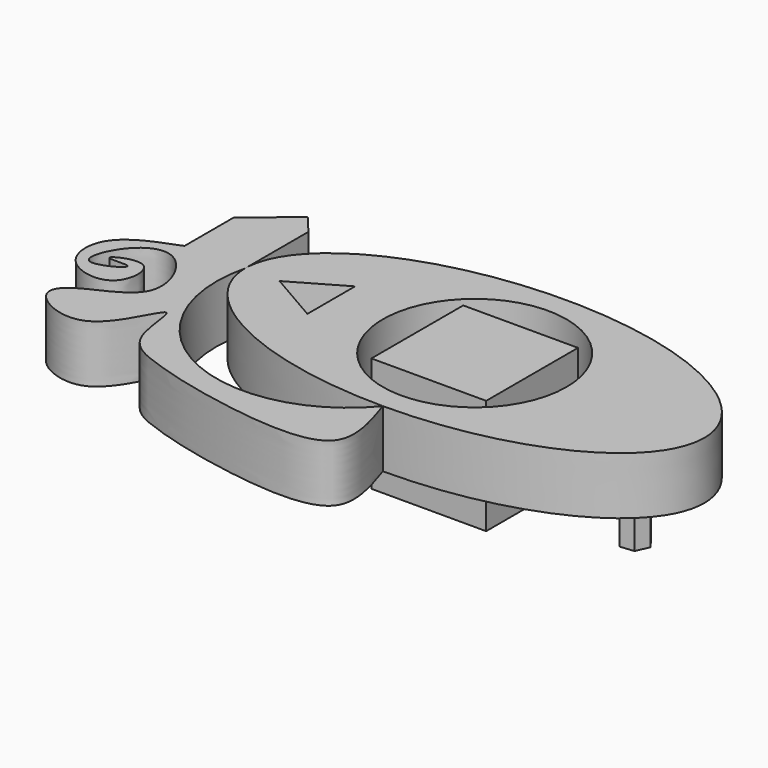
from build123d import *

# Parameters (mm, degrees)
F0_R     = 40
F1_DEPTH = 25
F0_W     = 50
F0_H     = 50
F2_DEPTH = 25


with BuildPart() as f1:
    # F0 (on Top) → F1 (new body)
    with BuildSketch(Plane.XY):
        with BuildLine():
            add(Edge.make_bspline(
                [(0, -50), (100, -50), (100, 0)],
                knots=[4.7123889804, 4.7123889804, 4.7123889804, 6.2831853072, 6.2831853072, 6.2831853072], degree=2, weights=[1, 0.7071067812, 1]))
            add(Edge.make_bspline(
                [(100, 0), (100, 50), (0, 50), (-100, 50), (-100, 0)],
                knots=[0, 0, 0, 1.5707963268, 1.5707963268, 3.1415926536, 3.1415926536, 3.1415926536], degree=2, weights=[1, 0.7071067812, 1, 0.7071067812, 1]))
            add(Edge.make_bspline(
                [(-100, 0), (-100, -50), (0, -50)],
                knots=[3.1415926536, 3.1415926536, 3.1415926536, 4.7123889804, 4.7123889804, 4.7123889804], degree=2, weights=[1, 0.7071067812, 1]))
        make_face()
        Polygon((-62.5, -12.9903810568), (-85, 0), (-62.5, 12.9903810568), align=None, mode=Mode.SUBTRACT)
        Circle(F0_R, mode=Mode.SUBTRACT)
        Polygon((66.461854397, 4.9225527617), (72.4939829417, 5.5254003553), (76.0321285446, 0.6028475936), (73.538145603, -4.9225527617), (67.5060170583, -5.5254003553), (63.9678714554, -0.6028475936), align=None, mode=Mode.SUBTRACT)
        Polygon((76.0321285446, 0.6028475936), (72.4939829417, 5.5254003553), (66.461854397, 4.9225527617), (63.9678714554, -0.6028475936), (67.5060170583, -5.5254003553), (73.538145603, -4.9225527617), align=None)
    extrude(amount=F1_DEPTH)

    # F0 (on Top) → F2 (join)
    with BuildSketch(Plane.XY):
        Polygon((76.0321285446, 0.6028475936), (72.4939829417, 5.5254003553), (66.461854397, 4.9225527617), (63.9678714554, -0.6028475936), (67.5060170583, -5.5254003553), (73.538145603, -4.9225527617), align=None)
    extrude(amount=-F2_DEPTH)


with BuildPart() as f1b:
    # F0 (on Top) → F1, piece 2 (new body)
    with BuildSketch(Plane.XY):
        Rectangle(F0_W, F0_H)
    extrude(amount=F1_DEPTH)

    # F0 (on Top) → F2, piece 2 (join)
    with BuildSketch(Plane.XY):
        Rectangle(F0_W, F0_H)
    extrude(amount=-F2_DEPTH)


with BuildPart() as f1c:
    # F0 (on Top) → F1, piece 3 (new body)
    with BuildSketch(Plane.XY):
        with BuildLine():
            ThreePointArc((0, -50), (-69.9270546316, -64.8541092633), (-100, 0))
            Line((-100, 0), (-126.4181733131, 0))
            add(Edge.make_bspline(
                [(-126.4181733131, 0), (-136.0209258607, -3.5894290983), (-153.5492062013, -10.1413546203), (-152.1391023865, -35.701528538), (-125.0127612437, -40.4775239064), (-124.4018570073, -13.2095927225), (-148.8405461339, -25.0883946313), (-123.8502582584, -21.1442084185), (-150.8541948567, -35.5918567031), (-142.2554812361, -10.7219282199), (-122.4244352267, -2.4255932939), (-106.1090290751, -37.2005497804), (-136.7968015676, -45.1714631945), (-146.2432486522, -58.3118214798), (-113.3182800131, -74.6533113623), (-98.5746390646, -28.4107235776), (-99.3518463087, -65.4323792035), (-78.807355626, -74.6352893855), (-42.913358526, -84.0396748235), (12.6266442314, -88.9643126179), (3.9673004502, -62.2426142813), (0, -50)],
                knots=[0, 0, 0, 0, 0.0599972362, 0.1095153052, 0.1596737434, 0.2042875466, 0.2443415015, 0.2784328313, 0.320298703, 0.3654588976, 0.4133465178, 0.4716243973, 0.5303953312, 0.5678962913, 0.6248125105, 0.6849239915, 0.7349842329, 0.7875800897, 0.8611764748, 0.9363976477, 1, 1, 1, 1], degree=3))
        make_face()
        Polygon((-126.4181733131, 0), (-100, 0), (-100, 34.4655661441), (-107.0371940732, 42.8681857884), (-126.4181733131, 26.6366153955), align=None)
    extrude(amount=F1_DEPTH)


solid = Compound([f1.part, f1b.part, f1c.part])
